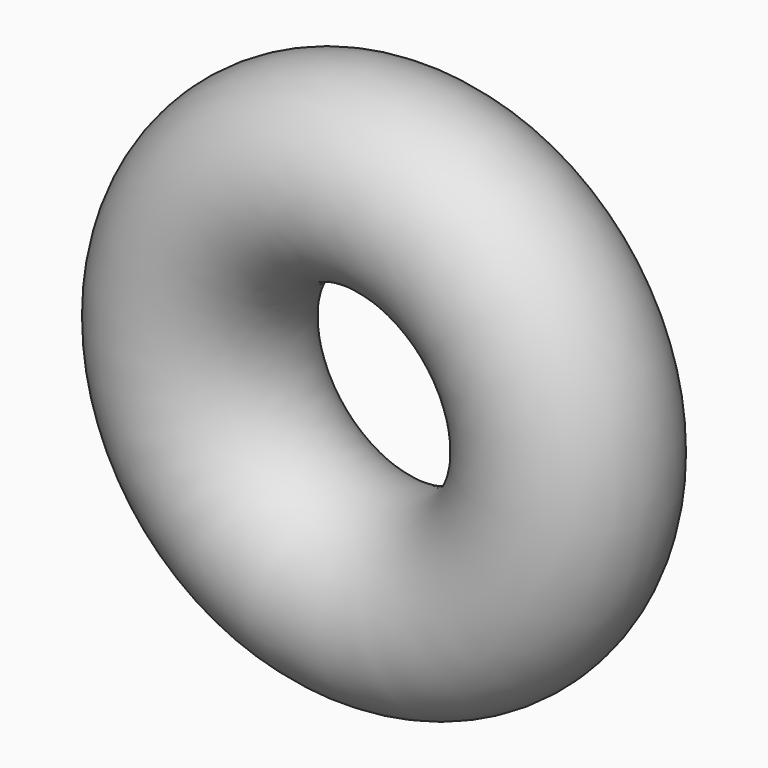
from build123d import *

# Parameters (mm, degrees)
F0_R = 38.1


with BuildPart() as f2:
    # F0 (on Top) → F2 (revolve)
    with BuildSketch(Plane.XY):
        Circle(F0_R)
    revolve(axis=Axis((-76.2, 0, 0), (0, -1, 0)))


solid = f2.part
